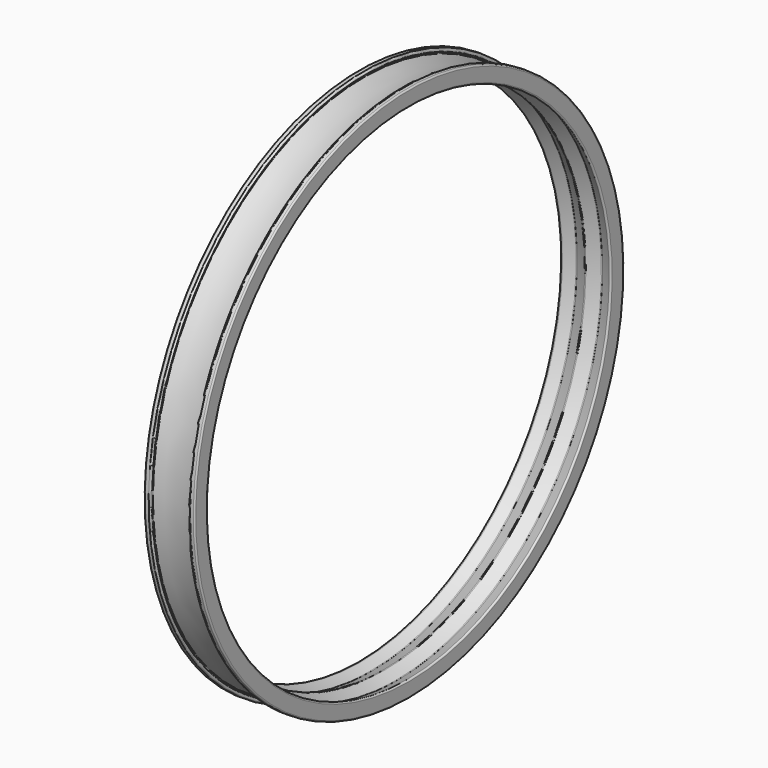
from build123d import *

# Parameters (mm, degrees)
F2_R = 1
F3_R = 1
F4_R = 0.25
F5_R = 0.25
F6_R = 0.25
F7_R = 0.5
F8_R = 1


with BuildPart() as f1:
    # F0 (on Front) → F1 (revolve)
    with BuildSketch(Plane.XZ):
        with BuildLine():
            Line((-18, 12), (-18, 0))
            Line((-18, 0), (-14.7, 0))
            ThreePointArc((-14.7, 0), (-13.4039274058, 1.1488351648), (-14.7, 2.2976703296))
            Line((-14.7, 2.2976703296), (-14.7, 3.3))
            ThreePointArc((-14.7, 3.3), (0, 5.0956014678), (14.7, 3.3))
            Line((14.7, 3.3), (14.7, 2.3))
            ThreePointArc((14.7, 2.3), (13.4139284974, 1.15), (14.7, 0))
            Line((14.7, 0), (18, 0))
            Line((18, 0), (18, 12))
            Line((18, 12), (9, 8.1797266541))
            Line((9, 8.1797266541), (0, 12))
            Line((0, 12), (-9, 8.1797266541))
            Line((-9, 8.1797266541), (-18, 12))
        make_face()
        Polygon((-0.6487308785, 5.7317591272), (-14.7, 4.05), (-14.7, 5.7317591272), align=None, mode=Mode.SUBTRACT)
        Polygon((14.7, 4.05), (0.6487308785, 5.7317591272), (14.7, 5.7317591272), align=None, mode=Mode.SUBTRACT)
        Polygon((-10.5813875926, 6.678265107), (-14.7, 6.7317591272), (-14.7, 8.4265123517), align=None, mode=Mode.SUBTRACT)
        Polygon((-7.6767861278, 6.678265107), (0, 9.9368674877), (7.6767861278, 6.678265107), (0, 6.678265107), align=None, mode=Mode.SUBTRACT)
        Polygon((14.7, 8.4265123517), (14.7, 6.7317591272), (10.5813875926, 6.678265107), align=None, mode=Mode.SUBTRACT)
    revolve(axis=Axis((43.3530546725, 0, 190.7317591272), (1, 0, 0)))

    # F2
    f2_edges = [f1.edges().sort_by_distance(p)[0] for p in [
        (18, 0, 369.463518),
        (0, 0, 369.463518),
        (-18, 0, 369.463518),
    ]]
    fillet(f2_edges, radius=F2_R)

    # F3
    f3_edges = [f1.edges().sort_by_distance(p)[0] for p in [
        (9, 0, 373.283792),
        (-9, 0, 373.283792),
    ]]
    fillet(f3_edges, radius=F3_R)

    # F4 (call 1 of 6: OpenCascade refuses the feature's edges together)
    f4_edges = [f1.edges().sort_by_distance(p)[0] for p in [
        (14.7, 0, 374.731759),
    ]]
    fillet(f4_edges, radius=F4_R)

    # F4#2 (call 2 of 6)
    f4_2_edges = [f1.edges().sort_by_distance(p)[0] for p in [
        (14.7, 0, 373.037006),
    ]]
    fillet(f4_2_edges, radius=F4_R)

    # F4#3 (call 3 of 6)
    f4_3_edges = [f1.edges().sort_by_distance(p)[0] for p in [
        (10.581388, 0, 374.785253),
    ]]
    fillet(f4_3_edges, radius=F4_R)

    # F4#4 (call 4 of 6)
    f4_4_edges = [f1.edges().sort_by_distance(p)[0] for p in [
        (-10.581388, 0, 374.785253),
    ]]
    fillet(f4_4_edges, radius=F4_R)

    # F4#5 (call 5 of 6)
    f4_5_edges = [f1.edges().sort_by_distance(p)[0] for p in [
        (-14.7, 0, 373.037006),
    ]]
    fillet(f4_5_edges, radius=F4_R)

    # F4#6 (call 6 of 6)
    f4_6_edges = [f1.edges().sort_by_distance(p)[0] for p in [
        (-14.7, 0, 374.731759),
    ]]
    fillet(f4_6_edges, radius=F4_R)

    # F5
    f5_edges = [f1.edges().sort_by_distance(p)[0] for p in [
        (0, 0, 371.526651),
        (7.676786, 0, 374.785253),
        (-7.676786, 0, 374.785253),
    ]]
    fillet(f5_edges, radius=F5_R)

    # F6 (call 1 of 6: OpenCascade refuses the feature's edges together)
    f6_edges = [f1.edges().sort_by_distance(p)[0] for p in [
        (14.7, 0, 375.731759),
    ]]
    fillet(f6_edges, radius=F6_R)

    # F6#2 (call 2 of 6)
    f6_2_edges = [f1.edges().sort_by_distance(p)[0] for p in [
        (0.648731, 0, 375.731759),
    ]]
    fillet(f6_2_edges, radius=F6_R)

    # F6#3 (call 3 of 6)
    f6_3_edges = [f1.edges().sort_by_distance(p)[0] for p in [
        (14.7, 0, 377.413518),
    ]]
    fillet(f6_3_edges, radius=F6_R)

    # F6#4 (call 4 of 6)
    f6_4_edges = [f1.edges().sort_by_distance(p)[0] for p in [
        (-0.648731, 0, 375.731759),
    ]]
    fillet(f6_4_edges, radius=F6_R)

    # F6#5 (call 5 of 6)
    f6_5_edges = [f1.edges().sort_by_distance(p)[0] for p in [
        (-14.7, 0, 375.731759),
    ]]
    fillet(f6_5_edges, radius=F6_R)

    # F6#6 (call 6 of 6)
    f6_6_edges = [f1.edges().sort_by_distance(p)[0] for p in [
        (-14.7, 0, 377.413518),
    ]]
    fillet(f6_6_edges, radius=F6_R)

    # F7
    f7_edges = [f1.edges().sort_by_distance(p)[0] for p in [
        (-14.7, 0, 378.163518),
        (-14.7, 0, 379.165848),
        (14.7, 0, 378.163518),
        (14.7, 0, 379.163518),
    ]]
    fillet(f7_edges, radius=F7_R)

    # F8
    f8_edges = [f1.edges().sort_by_distance(p)[0] for p in [
        (18, 0, 381.463518),
        (-18, 0, 381.463518),
    ]]
    fillet(f8_edges, radius=F8_R)


solid = f1.part
